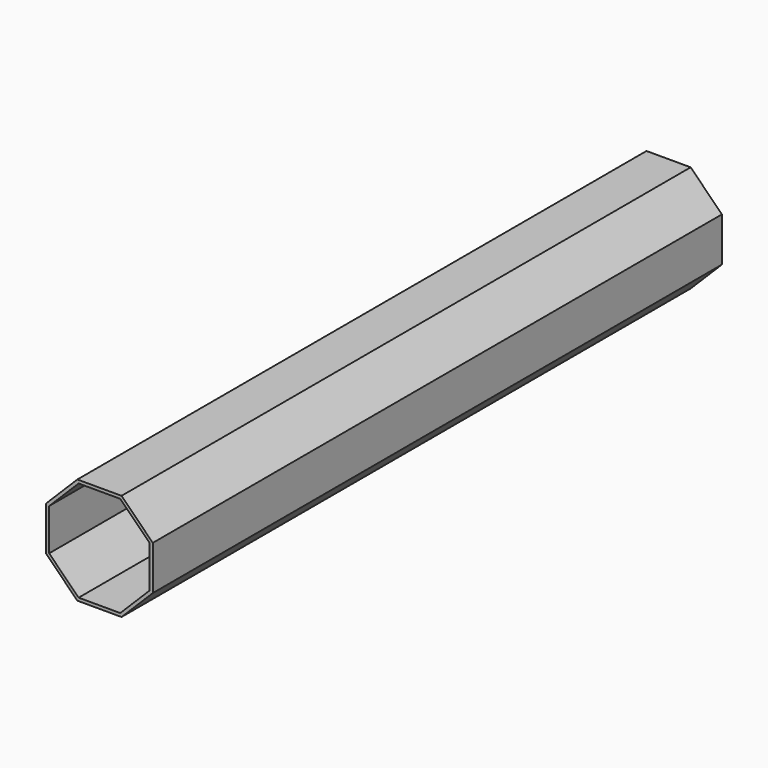
from build123d import *

# Parameters (mm, degrees)
F1_DEPTH = 381


with BuildPart() as f1:
    # F0 (on Front) → F1 (new body)
    with BuildSketch(Plane.XZ):
        Polygon((11.836153, 28.575), (-11.836153, 28.575), (-28.575, 11.836153), (-28.575, -11.836153), (-11.836153, -28.575), (11.836153, -28.575), (28.575, -11.836153), (28.575, 11.836153), align=None)
        Polygon((-26.924, 11.152286), (-11.152286, 26.924), (11.152286, 26.924), (26.924, 11.152286), (26.924, -11.152286), (11.152286, -26.924), (-11.152286, -26.924), (-26.924, -11.152286), align=None, mode=Mode.SUBTRACT)
    extrude(amount=F1_DEPTH)


solid = f1.part
